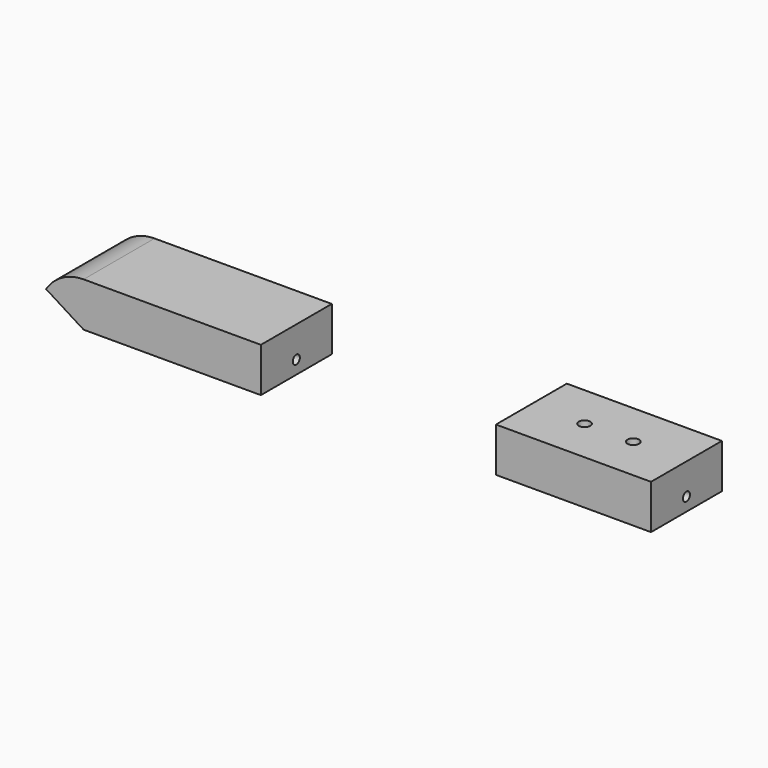
from build123d import *

# Parameters (mm, degrees)
F0_W     = 40
F0_H     = 10
F0_W_2   = 35
F1_DEPTH = 20
F2_R     = 1
F3_DEPTH = 58.166
F4_R     = 1
F5_DEPTH = 44.9834
F6_R     = 1.3
F7_DEPTH = 25.4


with BuildPart() as f1:
    # F0 (on Front) → F1 (new body)
    with BuildSketch(Plane.XZ):
        with Locations((-58.333964, 24.271492)):
            Rectangle(F0_W, F0_H)
        with BuildLine():
            Line((-86.805105, 24.585603), (-78.333964, 19.271492))
            Line((-78.333964, 19.271492), (-78.333964, 29.271492))
            ThreePointArc((-78.333964, 29.271492), (-83.174362, 28.021952), (-86.805105, 24.585603))
        make_face()
        with Locations((32.213918, 25.687634)):
            Rectangle(F0_W_2, F0_H)
    extrude(amount=F1_DEPTH)

    # F2 (on face) → F3 (cut)
    with BuildSketch(Plane.YZ.offset(-38.333964)):
        with Locations((-10, 22.271492)):
            Circle(F2_R)
    extrude(amount=-F3_DEPTH, mode=Mode.SUBTRACT)

    # F4 (on face) → F5 (cut)
    with BuildSketch(Plane.YZ.offset(49.713918)):
        with Locations((-10, 23.687634)):
            Circle(F4_R)
    extrude(amount=-F5_DEPTH, mode=Mode.SUBTRACT)

    # F6 (on face) → F7 (cut)
    with BuildSketch(Plane.XY.offset(30.687634)):
        with Locations((26.713918, -10)):
            Circle(F6_R)
        with Locations((37.713918, -10)):
            Circle(F6_R)
    extrude(amount=-F7_DEPTH, mode=Mode.SUBTRACT)


solid = f1.part
